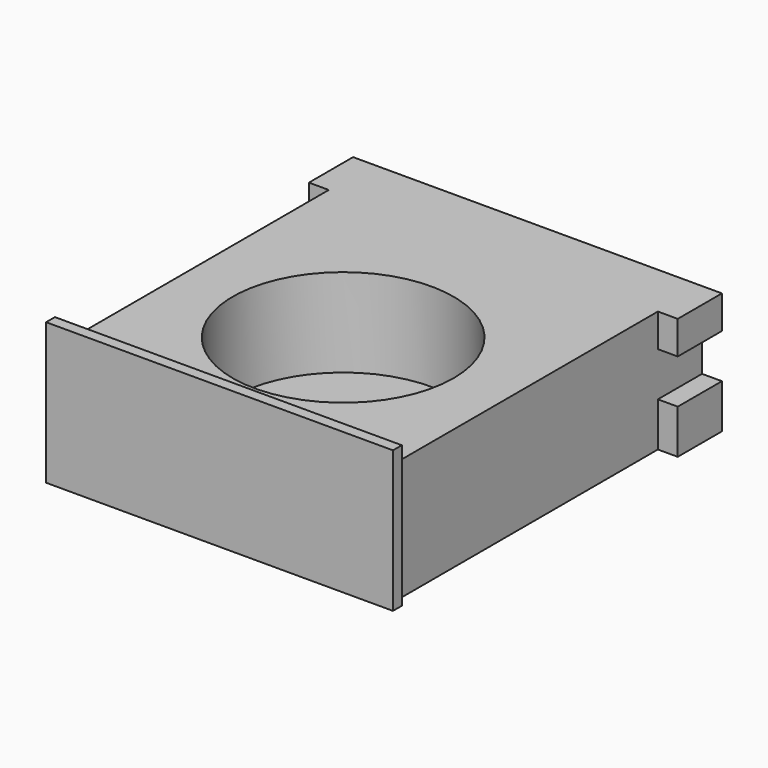
from build123d import *

# Parameters (mm, degrees)
F0_W     = 18.923
F0_H     = 6.985
F1_DEPTH = 22.86
F3_DEPTH = 0.635
F4_R     = 6.35
F5_DEPTH = 5.08
F4_W     = 1.143
F4_H     = 3.175
F6_DEPTH = 6.985
F7_W     = 1.143
F7_H     = 2.54
F8_DEPTH = 12.7


with BuildPart() as f1:
    # F0 (on Front) → F1 (new body)
    with BuildSketch(Plane.XZ):
        with Locations((0, -0.3175)):
            Rectangle(F0_W, F0_H)
    extrude(amount=F1_DEPTH)

    # F2 (on face) → F3 (join)
    with BuildSketch(Plane.XZ.offset(22.86)):
        Polygon((9.976428, 4.318), (-9.9695, 4.318), (-9.9695, -3.81), (-9.4615, -3.81), (-9.4615, 3.175), (9.4615, 3.175), (9.4615, -3.81), (9.976428, -3.81), align=None)
    extrude(amount=-F3_DEPTH)

    # F4 (on face) → F5 (cut)
    with BuildSketch(Plane.XY.offset(3.175)):
        with Locations((0, -13.97)):
            Circle(F4_R)
    extrude(amount=-F5_DEPTH, mode=Mode.SUBTRACT)

    # F4 (on face) → F6 (join, through all)
    with BuildSketch(Plane.XY.offset(3.175)):
        with Locations((-10.033, -1.5875)):
            Rectangle(F4_W, F4_H)
        with Locations((10.033, -1.5875)):
            Rectangle(F4_W, F4_H)
    extrude(amount=-F6_DEPTH)

    # F7 (on face) → F8 (cut)
    with BuildSketch(Plane.XZ):
        with Locations((10.033, 0)):
            Rectangle(F7_W, F7_H)
        with Locations((-10.033, 0)):
            Rectangle(F7_W, F7_H)
    extrude(amount=F8_DEPTH, mode=Mode.SUBTRACT)


solid = f1.part
